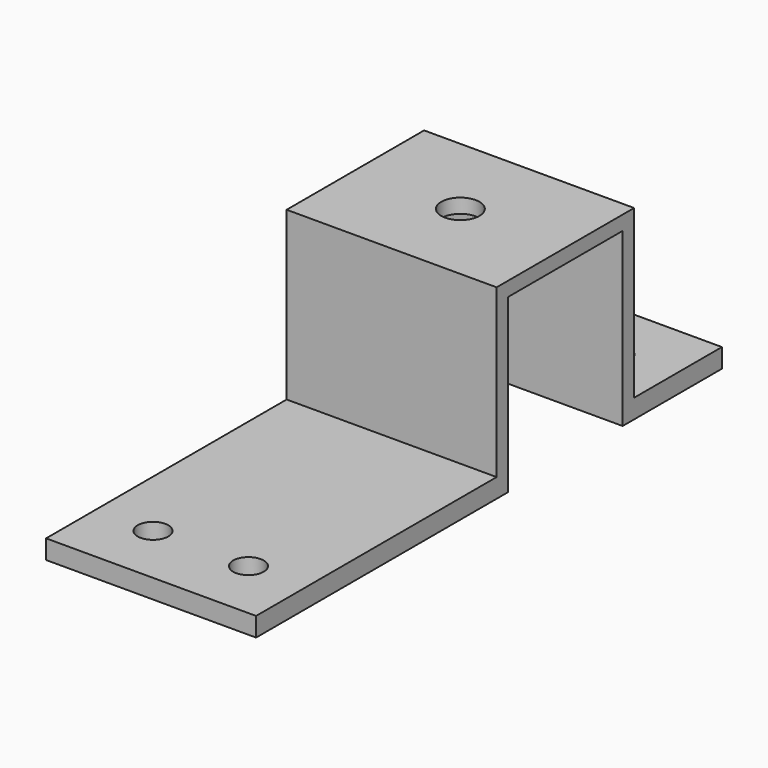
from build123d import *

# Parameters (mm, degrees)
SKETCH053_R      = 1.6
SKETCH053_R_2    = 2
EXTRUDE045_DEPTH = 30
EXTRUDE044_DEPTH = 11


with BuildPart() as extrude045:
    # Sketch053 → Extrude045 (new body)
    with BuildSketch(Plane.XY.offset(23)):
        with Locations((-5, 2.5)):
            Circle(SKETCH053_R)
        with Locations((5, 2.5)):
            Circle(SKETCH053_R)
        with Locations((-5, -45.5)):
            Circle(SKETCH053_R)
        with Locations((5, -45.5)):
            Circle(SKETCH053_R)
        with Locations((0, -11.5)):
            Circle(SKETCH053_R_2)
    extrude(amount=-EXTRUDE045_DEPTH)


with BuildPart() as dummy_servo:
    # Sketch052 → Extrude044 (new body, symmetric)
    with BuildSketch(Plane(origin=(0, 0, 0), x_dir=(0, -1, 0), z_dir=(-1, 0, 0))):
        Polygon((-9, 2), (-9, 4), (2.5, 4), (2.5, 21.5), (20.5, 21.5), (20.5, 4), (52, 4), (52, 2), (19, 2), (19, 20), (4, 20), (4, 2), align=None)
    extrude(amount=EXTRUDE044_DEPTH, both=True)

    # Cut012: cut Extrude045
    add(extrude045.part, mode=Mode.SUBTRACT)


solid = dummy_servo.part
